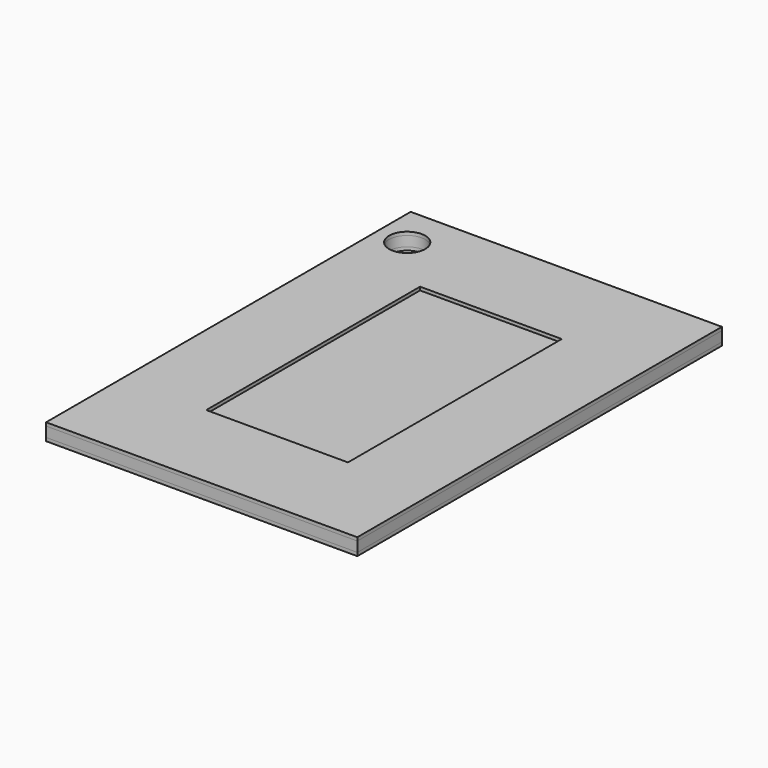
from build123d import *

# Parameters (mm, degrees)
F0_W     = 280
F0_H     = 410
F1_DEPTH = 3
F2_W     = 280
F2_H     = 410
F2_W_2   = 170
F2_H_2   = 280
F3_DEPTH = 9
F4_W     = 280
F4_H     = 410
F4_W_2   = 127.478986
F4_H_2   = 240.411148
F5_DEPTH = 3
F6_R     = 16.25774
F7_DEPTH = 15.001


with BuildPart() as f1:
    # F0 (on Top) → F1 (new body)
    with BuildSketch(Plane.XY):
        Rectangle(F0_W, F0_H)
    extrude(amount=F1_DEPTH)


with BuildPart() as f3:
    # F2 (on face) → F3 (new body)
    with BuildSketch(Plane.XY.offset(3)):
        Rectangle(F2_W, F2_H)
        Rectangle(F2_W_2, F2_H_2, mode=Mode.SUBTRACT)
    extrude(amount=F3_DEPTH)


with BuildPart() as f5:
    # F4 (on face) → F5 (new body)
    with BuildSketch(Plane.XY.offset(12)):
        Rectangle(F4_W, F4_H)
        Rectangle(F4_W_2, F4_H_2, mode=Mode.SUBTRACT)
    extrude(amount=F5_DEPTH)


with BuildPart() as f7_tool:
    # F6 (on face) → F7 (new body, through all)
    with BuildSketch(Plane.XY.offset(15)):
        with Locations((-112.891056, 167.197257)):
            Circle(F6_R)
    extrude(amount=-F7_DEPTH)


with BuildPart() as f1_1:
    add(f1.part)

    # F7: cut by f7_tool
    add(f7_tool.part, mode=Mode.SUBTRACT)


with BuildPart() as f3_1:
    add(f3.part)

    # F7: cut by f7_tool
    add(f7_tool.part, mode=Mode.SUBTRACT)


with BuildPart() as f5_1:
    add(f5.part)

    # F7: cut by f7_tool
    add(f7_tool.part, mode=Mode.SUBTRACT)


solid = Compound([f1_1.part, f3_1.part, f5_1.part])
